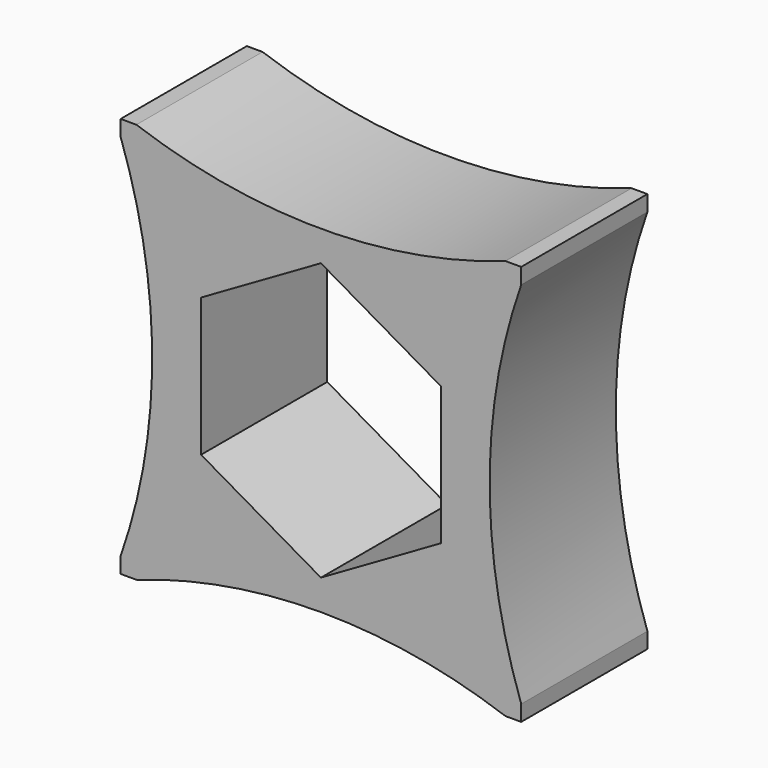
from build123d import *

# Parameters (mm, degrees)
F1_DEPTH = 6.35


with BuildPart() as f1:
    # F0 (on Front) → F1 (new body)
    with BuildSketch(Plane.XZ):
        with BuildLine():
            Line((16.129, 15.494), (16.129, 16.129))
            Line((16.129, 16.129), (15.494, 16.129))
            ThreePointArc((15.494, 16.129), (8.0645, 14.859), (0.635, 16.129))
            Line((0.635, 16.129), (0, 16.129))
            Line((0, 16.129), (0, 15.494))
            ThreePointArc((0, 15.494), (1.27, 8.0645), (0, 0.635))
            Line((0, 0.635), (0, 0))
            Line((0, 0), (0.635, 0))
            ThreePointArc((0.635, 0), (4.2958672821, 0.9502138998), (8.0645, 1.27))
            ThreePointArc((8.0645, 1.27), (11.8331327179, 0.9502138998), (15.494, 0))
            Line((15.494, 0), (16.129, 0))
            Line((16.129, 0), (16.129, 0.635))
            ThreePointArc((16.129, 0.635), (14.859, 8.0645), (16.129, 15.494))
        make_face()
        Polygon((8.0645, 13.6370847982), (12.8905, 10.8507923991), (12.8905, 8.0645), (12.8905, 5.2782076009), (8.0645, 2.4919152018), (3.2385, 5.2782076009), (3.2385, 10.8507923991), align=None, mode=Mode.SUBTRACT)
    extrude(amount=F1_DEPTH)


solid = f1.part
